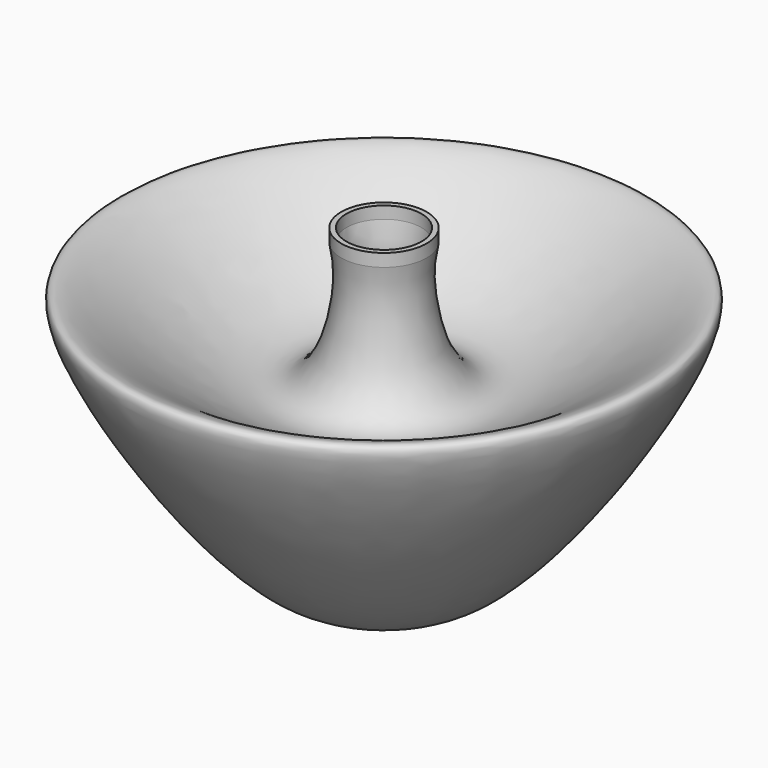
from build123d import *

# Parameters (mm, degrees)
F2_T = -2.5


with BuildPart() as f1:
    # F0 (on Front) → F1 (revolve)
    with BuildSketch(Plane.XZ):
        with BuildLine():
            Line((-20.6110235304, 87.4949395657), (-20.6110235304, 81.3664123416))
            add(Edge.make_bspline(
                [(-20.6110235304, 81.3664123416), (-19.1172810664, 74.5857057678), (-17.5820549435, 57.1045817434), (-37.3159503386, -11.4441353688), (-181.3642834588, 125.6228284277), (-44.4905397014, -95.1945646056), (-11.9998144915, -58.0720543837), (0, -59.9264167249)],
                knots=[0, 0, 0, 0, 0.127443756, 0.2944870034, 0.5322925581, 0.8382110087, 1, 1, 1, 1], degree=3))
            Line((0, -59.9264167249), (0, 81.8566977978))
            Line((0, 81.8566977978), (0, 84.4306759536))
            Line((0, 84.4306759536), (0, 87.4949395657))
            Line((0, 87.4949395657), (-20.6110235304, 87.4949395657))
        make_face()
    revolve(axis=Axis((0, 0, 10.9651405364), (0, 0, 1)))

    # F2
    f2_openings = [f1.faces().sort_by_distance(p)[0] for p in [
        (0, 0, 87.49494),
    ]]
    offset(amount=F2_T, openings=f2_openings, kind=Kind.INTERSECTION)


solid = f1.part
